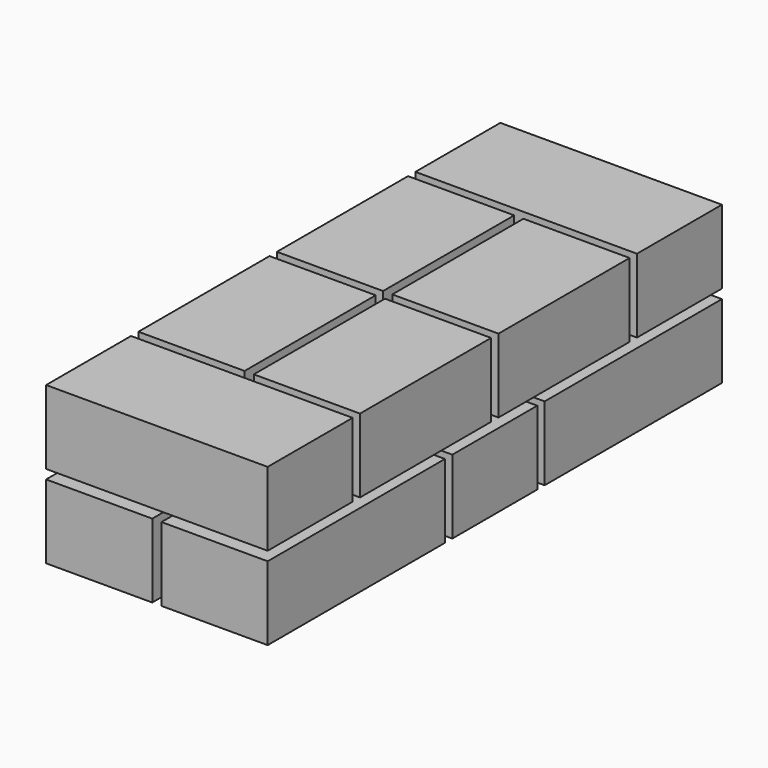
from build123d import *

# Parameters (mm, degrees)
F0_W     = 115
F0_H     = 240
F1_DEPTH = 80
F0_W_2   = 240
F0_H_2   = 115
F3_W     = 240
F3_H     = 115
F4_DEPTH = 80
F3_W_2   = 115
F3_H_2   = 177.5


with BuildPart() as f1:
    # F0 (on Top) → F1 (new body)
    with BuildSketch(Plane.XY):
        with Locations((57.5, 120)):
            Rectangle(F0_W, F0_H)
    extrude(amount=F1_DEPTH)


with BuildPart() as f1b:
    # F0 (on Top) → F1, piece 2 (new body)
    with BuildSketch(Plane.XY):
        with Locations((182.5, 120)):
            Rectangle(F0_W, F0_H)
    extrude(amount=F1_DEPTH)


with BuildPart() as f1c:
    # F0 (on Top) → F1, piece 3 (new body)
    with BuildSketch(Plane.XY):
        with Locations((120, 307.5)):
            Rectangle(F0_W_2, F0_H_2)
    extrude(amount=F1_DEPTH)


with BuildPart() as f1d:
    # F0 (on Top) → F1, piece 4 (new body)
    with BuildSketch(Plane.XY):
        with Locations((57.5, 495)):
            Rectangle(F0_W, F0_H)
    extrude(amount=F1_DEPTH)


with BuildPart() as f1e:
    # F0 (on Top) → F1, piece 5 (new body)
    with BuildSketch(Plane.XY):
        with Locations((182.5, 495)):
            Rectangle(F0_W, F0_H)
    extrude(amount=F1_DEPTH)


with BuildPart() as f4:
    # F3 (on offset) → F4 (new body)
    with BuildSketch(Plane.XY.offset(90)):
        with Locations((120, 57.5)):
            Rectangle(F3_W, F3_H)
    extrude(amount=F4_DEPTH)


with BuildPart() as f4b:
    # F3 (on offset) → F4, piece 2 (new body)
    with BuildSketch(Plane.XY.offset(90)):
        with Locations((57.5, 213.75)):
            Rectangle(F3_W_2, F3_H_2)
    extrude(amount=F4_DEPTH)


with BuildPart() as f4c:
    # F3 (on offset) → F4, piece 3 (new body)
    with BuildSketch(Plane.XY.offset(90)):
        with Locations((182.5, 213.75)):
            Rectangle(F3_W_2, F3_H_2)
    extrude(amount=F4_DEPTH)


with BuildPart() as f4d:
    # F3 (on offset) → F4, piece 4 (new body)
    with BuildSketch(Plane.XY.offset(90)):
        with Locations((57.5, 401.25)):
            Rectangle(F3_W_2, F3_H_2)
    extrude(amount=F4_DEPTH)


with BuildPart() as f4e:
    # F3 (on offset) → F4, piece 5 (new body)
    with BuildSketch(Plane.XY.offset(90)):
        with Locations((182.5, 401.25)):
            Rectangle(F3_W_2, F3_H_2)
    extrude(amount=F4_DEPTH)


with BuildPart() as f4f:
    # F3 (on offset) → F4, piece 6 (new body)
    with BuildSketch(Plane.XY.offset(90)):
        with Locations((120, 557.5)):
            Rectangle(F3_W, F3_H)
    extrude(amount=F4_DEPTH)


solid = Compound([f1.part, f1b.part, f1c.part, f1d.part, f1e.part, f4.part, f4b.part, f4c.part, f4d.part, f4e.part, f4f.part])
